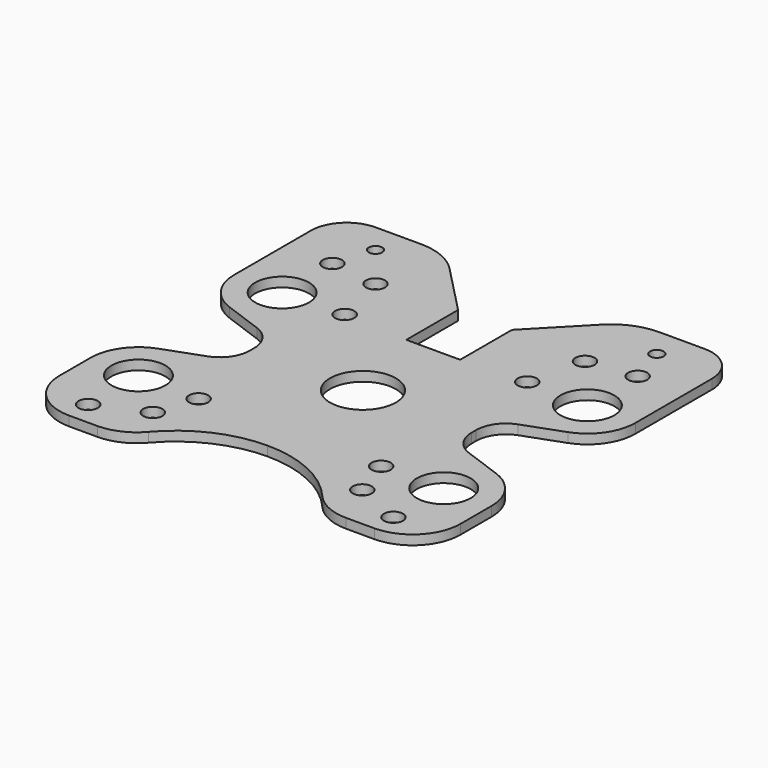
from build123d import *

# Parameters (mm, degrees)
F0_R     = 1.6
F0_R_2   = 4.5
F0_R_3   = 5.5
F0_R_4   = 1.130501
F1_DEPTH = 1.6


with BuildPart() as f1:
    # F0 (on Top) → F1 (new body)
    with BuildSketch(Plane.XY):
        with BuildLine():
            Line((0, 6.68), (-4.5, 6.68))
            Line((-4.5, 6.68), (-4.5, 17.5))
            Line((-4.5, 17.5), (-10.717738, 23.909049))
            Line((-10.717738, 23.909049), (-12.710509, 25.963134))
            ThreePointArc((-12.710509, 25.963134), (-15.99118, 28.209543), (-19.887888, 29.000001))
            Line((-19.887888, 29.000001), (-27.5, 29.000001))
            ThreePointArc((-27.5, 29.000001), (-31.742641, 27.242641), (-33.5, 23.000001))
            Line((-33.5, 23.000001), (-33.5, 7))
            ThreePointArc((-33.5, 7), (-32.053216, 2.411389), (-28.236161, -0.517541))
            Line((-28.236161, -0.517541), (-21.823232, -2.851656))
            ThreePointArc((-21.823232, -2.851656), (-19.437572, -4.682237), (-18.533332, -7.550119))
            Line((-18.533332, -7.550119), (-18.533332, -8))
            Line((-18.533332, -8), (-18.533332, -8.449881))
            ThreePointArc((-18.533332, -8.449881), (-19.437572, -11.317763), (-21.823232, -13.148344))
            Line((-21.823232, -13.148344), (-28.236161, -15.482459))
            ThreePointArc((-28.236161, -15.482459), (-32.053216, -18.411389), (-33.5, -23))
            Line((-33.5, -23), (-33.5, -29.5))
            ThreePointArc((-33.5, -29.5), (-31.156854, -35.156854), (-25.5, -37.5))
            Line((-25.5, -37.5), (-20.777138, -37.5))
            ThreePointArc((-20.777138, -37.5), (-17.336651, -36.747083), (-14.525119, -34.625971))
            ThreePointArc((-14.525119, -34.625971), (-7.993173, -29.698059), (0, -27.94883))
            ThreePointArc((0, -27.94883), (7.993173, -29.698059), (14.525119, -34.625971))
            ThreePointArc((14.525119, -34.625971), (17.336651, -36.747083), (20.777138, -37.5))
            Line((20.777138, -37.5), (25.5, -37.5))
            ThreePointArc((25.5, -37.5), (31.156854, -35.156854), (33.5, -29.5))
            Line((33.5, -29.5), (33.5, -23))
            ThreePointArc((33.5, -23), (32.053216, -18.411389), (28.236161, -15.482459))
            Line((28.236161, -15.482459), (21.823232, -13.148344))
            ThreePointArc((21.823232, -13.148344), (19.437572, -11.317763), (18.533332, -8.449881))
            Line((18.533332, -8.449881), (18.533332, -8))
            Line((18.533332, -8), (18.533332, -7.550119))
            ThreePointArc((18.533332, -7.550119), (19.437572, -4.682237), (21.823232, -2.851656))
            Line((21.823232, -2.851656), (28.236161, -0.517541))
            ThreePointArc((28.236161, -0.517541), (32.053216, 2.411389), (33.5, 7))
            Line((33.5, 7), (33.5, 23.000001))
            ThreePointArc((33.5, 23.000001), (31.742641, 27.242641), (27.5, 29.000001))
            Line((27.5, 29.000001), (19.887888, 29.000001))
            ThreePointArc((19.887888, 29.000001), (15.99118, 28.209543), (12.710509, 25.963134))
            Line((12.710509, 25.963134), (10.717738, 23.909049))
            Line((10.717738, 23.909049), (4.5, 17.5))
            Line((4.5, 17.5), (4.5, 6.68))
            Line((4.5, 6.68), (0, 6.68))
        make_face()
        with Locations((-25.5, -33.5)):
            Circle(F0_R, mode=Mode.SUBTRACT)
        with Locations((-17.5, -30)):
            Circle(F0_R, mode=Mode.SUBTRACT)
        with Locations((-25.5, -23)):
            Circle(F0_R_2, mode=Mode.SUBTRACT)
        with Locations((-15.25, -23.25)):
            Circle(F0_R, mode=Mode.SUBTRACT)
        with Locations((15.25, -23.25)):
            Circle(F0_R, mode=Mode.SUBTRACT)
        with Locations((17.5, -30)):
            Circle(F0_R, mode=Mode.SUBTRACT)
        with Locations((25.5, -33.5)):
            Circle(F0_R, mode=Mode.SUBTRACT)
        with Locations((25.5, -23)):
            Circle(F0_R_2, mode=Mode.SUBTRACT)
        with Locations((0, -8)):
            Circle(F0_R_3, mode=Mode.SUBTRACT)
        with Locations((-25.5, 7)):
            Circle(F0_R_2, mode=Mode.SUBTRACT)
        with Locations((-15.25, 7.25)):
            Circle(F0_R, mode=Mode.SUBTRACT)
        with Locations((-25.5, 17.5)):
            Circle(F0_R, mode=Mode.SUBTRACT)
        with Locations((-17.500001, 16.5)):
            Circle(F0_R, mode=Mode.SUBTRACT)
        with Locations((-23.5, 24.000001)):
            Circle(F0_R_4, mode=Mode.SUBTRACT)
        with Locations((15.25, 7.25)):
            Circle(F0_R, mode=Mode.SUBTRACT)
        with Locations((25.5, 7)):
            Circle(F0_R_2, mode=Mode.SUBTRACT)
        with Locations((17.500001, 16.5)):
            Circle(F0_R, mode=Mode.SUBTRACT)
        with Locations((25.5, 17.5)):
            Circle(F0_R, mode=Mode.SUBTRACT)
        with Locations((23.5, 24.000001)):
            Circle(F0_R_4, mode=Mode.SUBTRACT)
    extrude(amount=F1_DEPTH)


solid = f1.part
